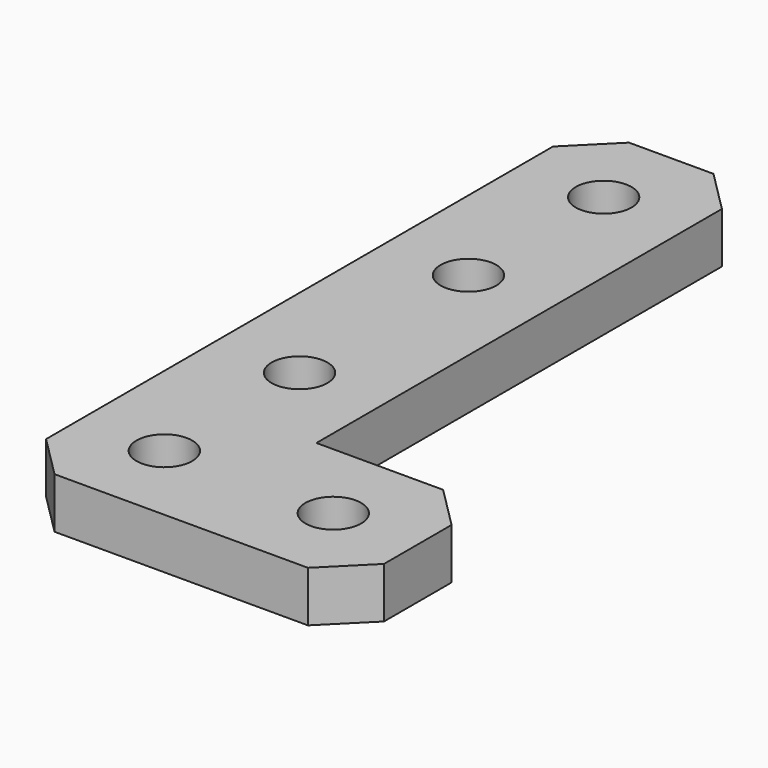
from build123d import *

# Parameters (mm, degrees)
F1_DEPTH = 6
F3_D     = 6.6
F4_SIZE  = 5


with BuildPart() as f1:
    # F0 (on Top) → F1 (new body)
    with BuildSketch(Plane.XY):
        Polygon((0, 85), (0, 0), (15.6104657799, 0), (20, 0), (40, 0), (40, 20), (20, 20), (20, 85), align=None)
    extrude(amount=F1_DEPTH)

    # F3 (through all)
    with Locations(Plane.XY.offset(6)):
        with Locations((10, 75), (10, 55), (10, 10), (30, 10), (10, 30)):
            Hole(F3_D / 2)

    # F4
    f4_edges = [f1.edges().sort_by_distance(p)[0] for p in [
        (20, 85, 3),
        (0, 85, 3),
        (40, 20, 3),
        (40, 0, 3),
        (0, 0, 3),
    ]]
    chamfer(f4_edges, length=F4_SIZE)


solid = f1.part
